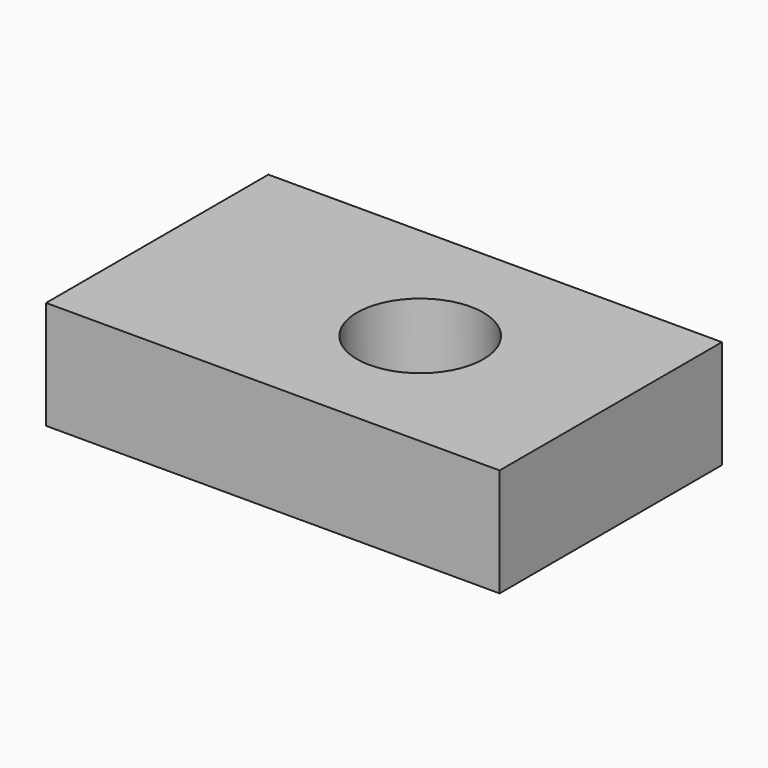
from build123d import *

# Parameters (mm, degrees)
F0_W     = 106.410607
F0_H     = 65.193332
F1_DEPTH = 25.4
F2_R     = 14.819115
F3_DEPTH = 125.476


with BuildPart() as f1:
    # F0 (on Top) → F1 (new body)
    with BuildSketch(Plane.XY):
        with Locations((-8.485909, 0)):
            Rectangle(F0_W, F0_H)
    extrude(amount=F1_DEPTH)

    # F2 (on face) → F3 (cut)
    with BuildSketch(Plane.XY.offset(25.4)):
        Circle(F2_R)
    extrude(amount=-F3_DEPTH, mode=Mode.SUBTRACT)


solid = f1.part
